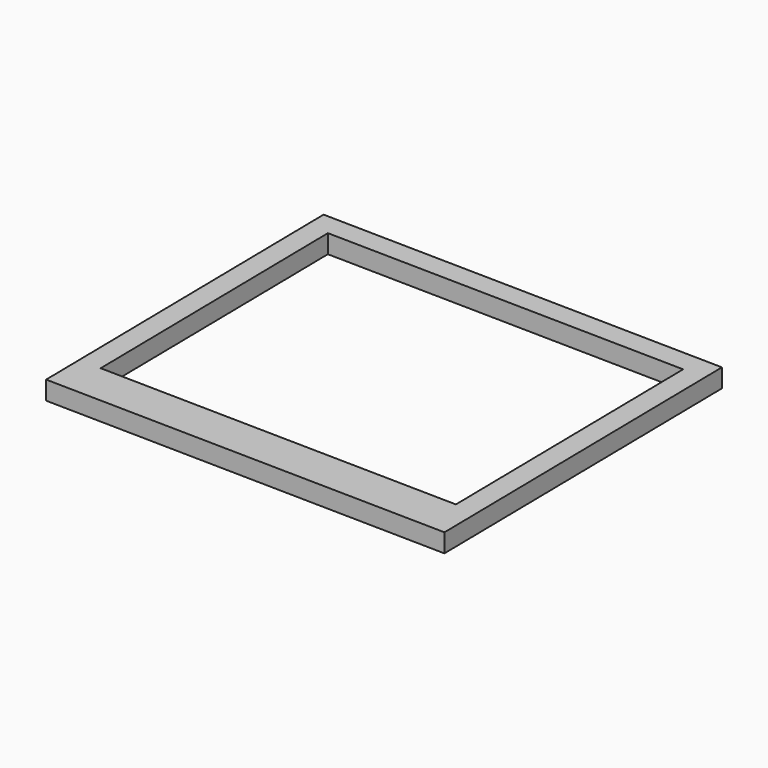
from build123d import *

# Parameters (mm, degrees)
SKETCH007_W             = 425
SKETCH007_H             = 370
SKETCH007_W_2           = 379
SKETCH007_H_2           = 303
PAD003_DEPTH            = 20
PAD004_DEPTH            = 5
LINEARPATTERN001_COUNT  = 6
LINEARPATTERN001_PITCH  = 60
BODY001_ROLL_ANGLE      = 0.707143
BODY001_PITCH_ANGLE     = 0.707089
BODY001_PLACEMENT_ANGLE = 0.004364


with BuildPart() as part:
    # Sketch007 → Pad003 (new body)
    with BuildSketch(Plane.XY):
        Rectangle(SKETCH007_W, SKETCH007_H)
        with Locations((0, 10.5)):
            Rectangle(SKETCH007_W_2, SKETCH007_H_2, mode=Mode.SUBTRACT)
    extrude(amount=PAD003_DEPTH)

    # Sketch008 → Pad004 (join)
    with BuildSketch(Plane.XY):
        with BuildLine():
            ThreePointArc((-155.799344, -161.125363), (-159.299344, -164.625363), (-155.799344, -168.125363))
            Line((-155.799344, -168.125363), (-145.799344, -168.125363))
            ThreePointArc((-145.799344, -168.125363), (-142.299344, -164.625363), (-145.799344, -161.125363))
            Line((-155.799344, -161.125363), (-145.799344, -161.125363))
        make_face()
    pad004 = extrude(amount=-PAD004_DEPTH)

    # LinearPattern001: Pad004 ×6
    with Locations(*[(i * LINEARPATTERN001_PITCH, 0, 0) for i in range(1, LINEARPATTERN001_COUNT)]):
        add(pad004)


with BuildPart() as part_1:
    # Body001 roll: moved
    add(part.part.rotate(Axis((0, 0, 0), (1, 0, 0)), BODY001_ROLL_ANGLE))


with BuildPart() as part_2:
    # Body001 pitch: moved
    add(part_1.part.rotate(Axis((0, 0, 0), (0, 1, 0)), BODY001_PITCH_ANGLE))


with BuildPart() as part_3:
    # Body001 placement: moved
    add(part_2.part.moved(Location((-350, 290, 140))).rotate(Axis((-350, 290, 140), (0, 0, 1)), BODY001_PLACEMENT_ANGLE))


solid = part_3.part
